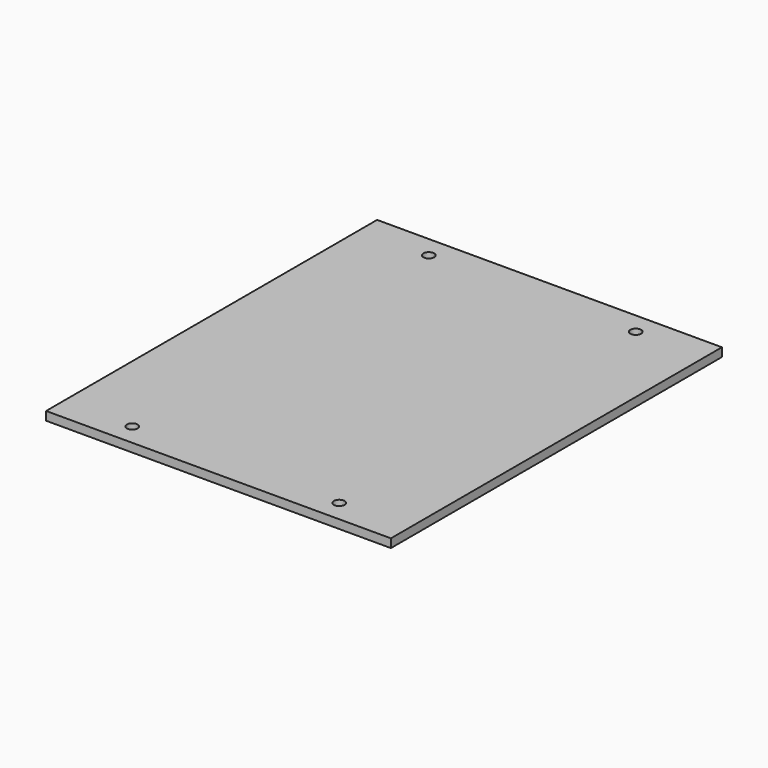
from build123d import *

# Parameters (mm, degrees)
F0_W     = 254
F0_H     = 304.8
F1_DEPTH = 6.35
F3_D     = 7.9248
F4_D     = 7.9248
F5_D     = 7.9248
F6_D     = 7.9248


with BuildPart() as f1:
    # F0 (on Top) → F1 (new body)
    with BuildSketch(Plane.XY):
        with Locations((127, 152.4)):
            Rectangle(F0_W, F0_H)
    extrude(amount=-F1_DEPTH)

    # F3 (through all)
    with Locations(Plane.XY):
        with Locations((50.8, 288.925)):
            Hole(F3_D / 2)

    # F4 (through all)
    with Locations(Plane.XY):
        with Locations((203.2, 288.925)):
            Hole(F4_D / 2)

    # F5 (through all)
    with Locations(Plane.XY):
        with Locations((203.2, 15.875)):
            Hole(F5_D / 2)

    # F6 (through all)
    with Locations(Plane.XY):
        with Locations((50.8, 15.875)):
            Hole(F6_D / 2)


solid = f1.part
